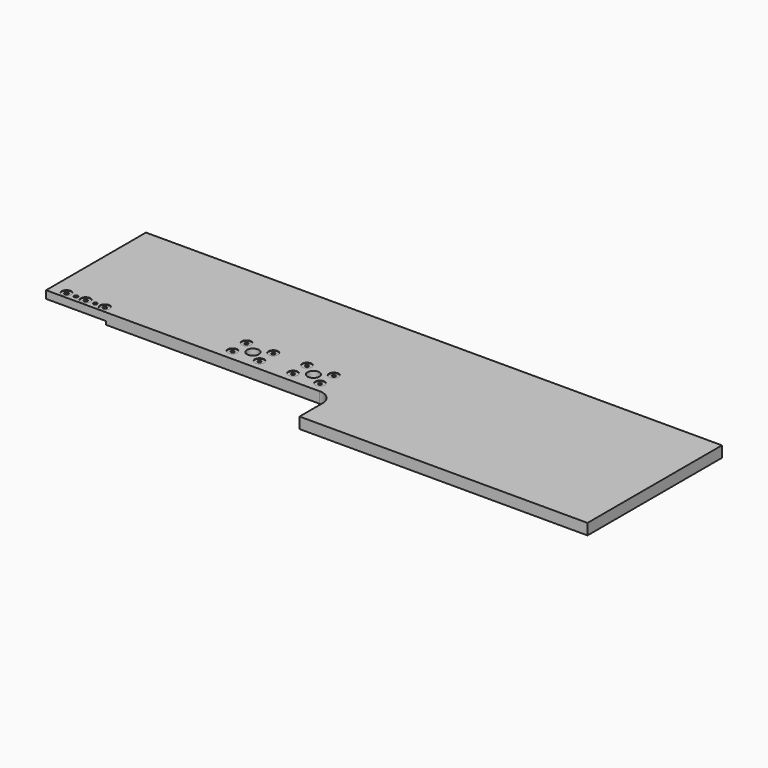
from build123d import *

# Parameters (mm, degrees)
F1_DEPTH  = 18
F3_DEPTH  = 5
F5_DEPTH  = 7
F6_R      = 12.5
F6_R_2    = 3.5
F7_DEPTH  = 25
F8_R      = 10
F8_R_2    = 3.5
F9_DEPTH  = 1
F10_R     = 3.902724
F11_DEPTH = 25
F12_R     = 10
F12_R_2   = 3.902724
F13_DEPTH = 1


with BuildPart() as f1:
    # F0 (on Top) → F1 (new body)
    with BuildSketch(Plane.XY):
        with BuildLine():
            Line((600, 60), (600, 0))
            Line((600, 0), (1200, 0))
            Line((1200, 0), (1200, 350))
            Line((1200, 350), (0, 350))
            Line((0, 350), (0, 90))
            Line((0, 90), (570, 90))
            ThreePointArc((570, 90), (591.213203, 81.213203), (600, 60))
        make_face()
        with BuildLine():
            Line((600, 60), (600, 0))
            Line((600, 0), (1200, 0))
            Line((1200, 0), (1200, 350))
            Line((1200, 350), (0, 350))
            Line((0, 350), (0, 90))
            Line((0, 90), (570, 90))
            ThreePointArc((570, 90), (591.213203, 81.213203), (600, 60))
        make_face()
    extrude(amount=F1_DEPTH)

    # F2 (on face) → F3 (join)
    with BuildSketch(Plane(origin=(0, 0, 0), x_dir=(1, 0, 0), z_dir=(0, 0, -1))):
        with BuildLine():
            Line((600, 0), (600, -60))
            ThreePointArc((600, -60), (591.213203, -81.213203), (570, -90))
            Line((570, -90), (0, -90))
            Line((0, -90), (0, -350))
            Line((0, -350), (1200, -350))
            Line((1200, -350), (1200, 0))
            Line((1200, 0), (600, 0))
        make_face()
        with BuildLine():
            Line((369, -105), (555, -105))
            ThreePointArc((555, -105), (558.535534, -106.464466), (560, -110))
            Line((560, -110), (560, -150))
            ThreePointArc((560, -150), (558.535534, -153.535534), (555, -155))
            Line((555, -155), (369, -155))
            ThreePointArc((369, -155), (365.464466, -153.535534), (364, -150))
            Line((364, -150), (364, -110))
            ThreePointArc((364, -110), (365.464466, -106.464466), (369, -105))
        make_face(mode=Mode.SUBTRACT)
    extrude(amount=F3_DEPTH)

    # F4 (on face) → F5 (cut)
    with BuildSketch(Plane(origin=(0, 0, -5), x_dir=(1, 0, 0), z_dir=(0, 0, -1))):
        with BuildLine():
            Line((125, -90), (0, -90))
            Line((0, -90), (0, -114.8))
            Line((0, -114.8), (120, -114.8))
            ThreePointArc((120, -114.8), (123.535534, -113.335534), (125, -109.8))
            Line((125, -109.8), (125, -90))
        make_face()
    extrude(amount=-F5_DEPTH, mode=Mode.SUBTRACT)

    # F6 (on face) → F7 (cut)
    with BuildSketch(Plane(origin=(0, 0, 0), x_dir=(1, 0, 0), z_dir=(0, 0, -1))):
        with Locations((525, -130)):
            Circle(F6_R)
        with Locations((399, -130)):
            Circle(F6_R)
        with Locations((371, -112)):
            Circle(F6_R_2)
        with Locations((427, -112)):
            Circle(F6_R_2)
        with Locations((371, -148)):
            Circle(F6_R_2)
        with Locations((427, -148)):
            Circle(F6_R_2)
        with Locations((497, -148)):
            Circle(F6_R_2)
        with Locations((497, -112)):
            Circle(F6_R_2)
        with Locations((553, -112)):
            Circle(F6_R_2)
        with Locations((553, -148)):
            Circle(F6_R_2)
    extrude(amount=-F7_DEPTH, mode=Mode.SUBTRACT)

    # F8 (on face) → F9 (cut)
    with BuildSketch(Plane.XY.offset(18)):
        with Locations((371, 148)):
            Circle(F8_R)
        with Locations((371, 148)):
            Circle(F8_R_2, mode=Mode.SUBTRACT)
        with Locations((427, 148)):
            Circle(F8_R)
        with Locations((427, 148)):
            Circle(F8_R_2, mode=Mode.SUBTRACT)
        with Locations((497, 148)):
            Circle(F8_R)
        with Locations((497, 148)):
            Circle(F8_R_2, mode=Mode.SUBTRACT)
        with Locations((553, 148)):
            Circle(F8_R)
        with Locations((553, 148)):
            Circle(F8_R_2, mode=Mode.SUBTRACT)
        with Locations((553, 112)):
            Circle(F8_R)
        with Locations((553, 112)):
            Circle(F8_R_2, mode=Mode.SUBTRACT)
        with Locations((497, 112)):
            Circle(F8_R)
        with Locations((497, 112)):
            Circle(F8_R_2, mode=Mode.SUBTRACT)
        with Locations((427, 112)):
            Circle(F8_R)
        with Locations((427, 112)):
            Circle(F8_R_2, mode=Mode.SUBTRACT)
        with Locations((371, 112)):
            Circle(F8_R)
        with Locations((371, 112)):
            Circle(F8_R_2, mode=Mode.SUBTRACT)
    extrude(amount=-F9_DEPTH, mode=Mode.SUBTRACT)

    # F10 (on face) → F11 (cut)
    with BuildSketch(Plane(origin=(0, 0, 2), x_dir=(1, 0, 0), z_dir=(0, 0, -1))):
        with Locations((111.9, -103.2)):
            Circle(F10_R)
        with Locations((91.9, -103.2)):
            Circle(F10_R)
        with Locations((71.9, -103.2)):
            Circle(F10_R)
        with Locations((51.9, -103.2)):
            Circle(F10_R)
        with Locations((31.9, -103.2)):
            Circle(F10_R)
    extrude(amount=-F11_DEPTH, mode=Mode.SUBTRACT)

    # F12 (on face) → F13 (cut)
    with BuildSketch(Plane.XY.offset(18)):
        with Locations((31.9, 103.2)):
            Circle(F12_R)
        with Locations((31.9, 103.2)):
            Circle(F12_R_2, mode=Mode.SUBTRACT)
        with Locations((71.9, 103.2)):
            Circle(F12_R)
        with Locations((71.9, 103.2)):
            Circle(F12_R_2, mode=Mode.SUBTRACT)
        with Locations((111.9, 103.2)):
            Circle(F12_R)
        with Locations((111.9, 103.2)):
            Circle(F12_R_2, mode=Mode.SUBTRACT)
    extrude(amount=-F13_DEPTH, mode=Mode.SUBTRACT)


solid = f1.part
